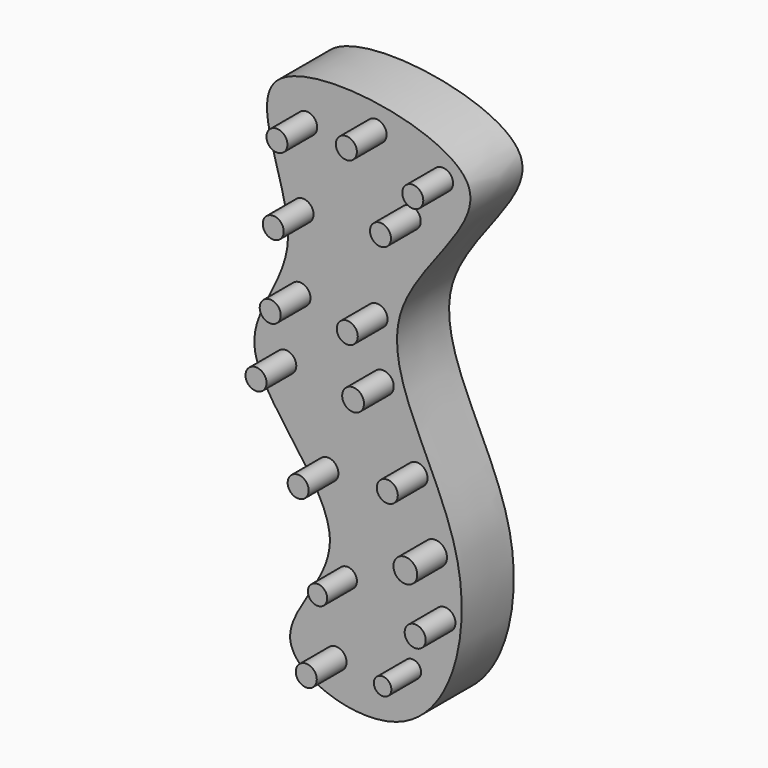
from build123d import *

# Parameters (mm, degrees)
F1_DEPTH = 17.78
F2_R     = 2.8702
F2_R_2   = 3.2520006194
F2_R_3   = 2.6356112636
F2_R_4   = 2.387224169
F2_R_5   = 2.9821039132
F3_DEPTH = 10.16


with BuildPart() as f1:
    # F0 (on Front) → F1 (new body)
    with BuildSketch(Plane.XZ):
        with BuildLine():
            add(Edge.make_bspline(
                [(18.3373583709, 59.2432514464), (12.5416774866, 69.9835926526), (-54.8103235221, 80.0604059689), (-19.845684402, 27.2404074739), (-53.3591151896, 0.1811543675), (-3.9439425806, -37.7775415123), (-44.4423631948, -69.4805605673), (9.1519330646, -87.7424854783), (25.846555966, -28.0573494085), (-18.4568379785, 19.8274550257), (23.5261598485, 49.6275566845), (18.3373583709, 59.2432514464)],
                knots=[0, 0, 0, 0, 0.1260170134, 0.2319676454, 0.3294785393, 0.4449154149, 0.5406382986, 0.6379095939, 0.7570159211, 0.8871785251, 1, 1, 1, 1], degree=3))
        make_face()
    extrude(amount=F1_DEPTH)

    # F2 (on face) → F3 (join)
    with BuildSketch(Plane.XZ.offset(17.78)):
        with Locations((-25.5079776201, 59.2132149123)):
            Circle(F2_R)
        with Locations((-6.5449277575, 63.5918911384)):
            Circle(F2_R)
        with Locations((11.5972664207, 57.8137785196)):
            Circle(F2_R)
        with Locations((-26.5163239541, 37.9452386281)):
            Circle(F2_R)
        with Locations((2.7777925342, 45.7911120017)):
            Circle(F2_R)
        with Locations((-6.2934271361, 19.2939079344)):
            Circle(F2_R)
        with Locations((-27.3397862911, 17.5392888486)):
            Circle(F2_R)
        with Locations((-31.2214978039, 0)):
            Circle(F2_R)
        with Locations((-19.7121296078, -22.1079997718)):
            Circle(F2_R)
        with Locations((9.5640188083, -32.7352248132)):
            Circle(F2_R_2)
        with Locations((4.6336096711, -15.363429673)):
            Circle(F2_R)
        with Locations((12.2533654794, -47.6889424026)):
            Circle(F2_R)
        with Locations((-14.4201721996, -46.4184209704)):
            Circle(F2_R_3)
        with Locations((3.353175831, -62.6093894243)):
            Circle(F2_R_4)
        with Locations((-17.4942594022, -66.8252408504)):
            Circle(F2_R)
        with Locations((-4.7092563473, 3.6780715454)):
            Circle(F2_R_5)
    extrude(amount=F3_DEPTH)


solid = f1.part
